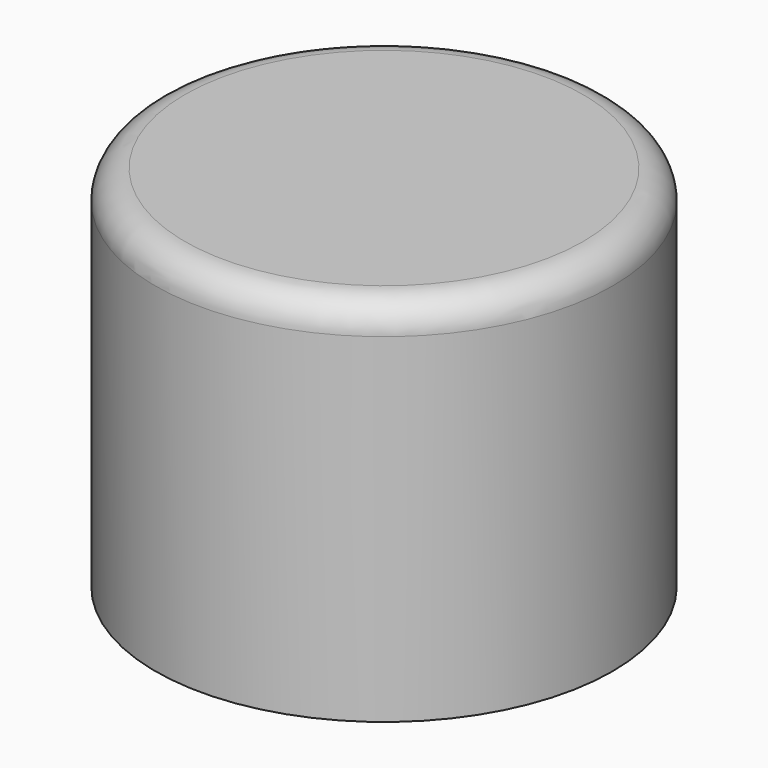
from build123d import *

# Parameters (mm, degrees)
F0_R     = 15.5
F1_DEPTH = 25
F2_T     = -3
F3_R     = 2
F4_R     = 7.5
F5_DEPTH = 15
F6_R     = 5.275719
F7_DEPTH = 10


with BuildPart() as f1:
    # F0 (on Top) → F1 (new body)
    with BuildSketch(Plane.XY):
        Circle(F0_R)
    extrude(amount=F1_DEPTH)

    # F2
    f2_openings = [f1.faces().sort_by_distance(p)[0] for p in [
        (0, 0, 0),
    ]]
    offset(amount=F2_T, openings=f2_openings)

    # F3
    f3_edges = [f1.edges().sort_by_distance(p)[0] for p in [
        (-15.5, 0, 25),
    ]]
    fillet(f3_edges, radius=F3_R)

    # F4 (on face) → F5 (join)
    with BuildSketch(Plane(origin=(0, 0, 22), x_dir=(1, 0, 0), z_dir=(0, 0, -1))):
        Circle(F4_R)
    extrude(amount=F5_DEPTH)

    # F6 (on face) → F7 (cut)
    with BuildSketch(Plane(origin=(0, 0, 7), x_dir=(1, 0, 0), z_dir=(0, 0, -1))):
        Circle(F6_R)
    extrude(amount=-F7_DEPTH, mode=Mode.SUBTRACT)


solid = f1.part
